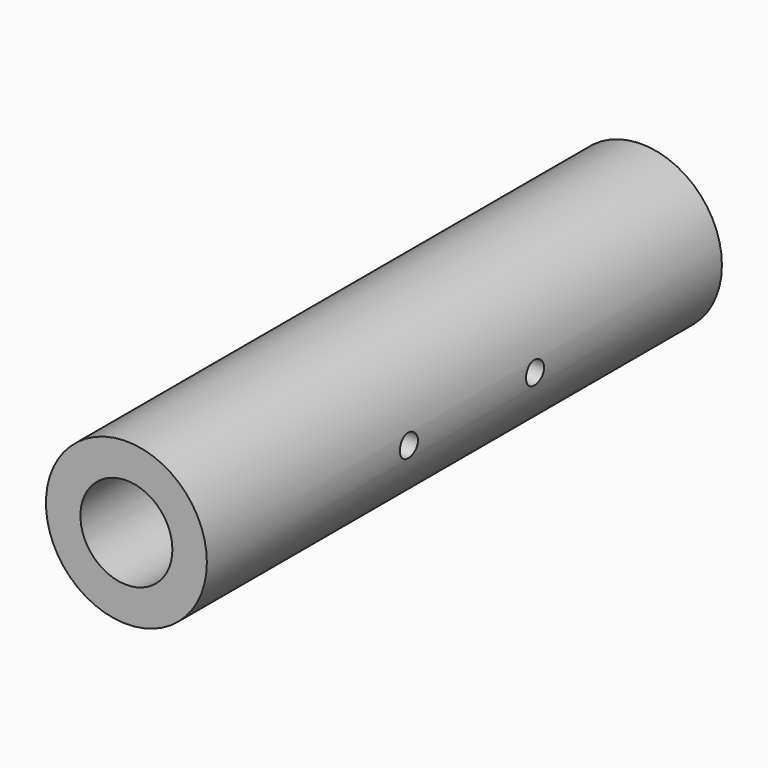
from build123d import *

# Parameters (mm, degrees)
F0_R     = 11.1125
F1_DEPTH = 44.45
F2_R     = 6.35
F3_DEPTH = 88.9
F4_R     = 1.5584639764
F4_R_2   = 1.5569858866
F5_DEPTH = 12.7
F6_DEPTH = 12.7


with BuildPart() as f1:
    # F0 (on Front) → F1 (new body, symmetric)
    with BuildSketch(Plane.XZ):
        Circle(F0_R)
    extrude(amount=F1_DEPTH, both=True)

    # F2 (on face) → F3 (cut)
    with BuildSketch(Plane.XZ.offset(44.45)):
        Circle(F2_R)
    extrude(amount=-F3_DEPTH, mode=Mode.SUBTRACT)

    # F4 (on Right) → F5 (cut, symmetric)
    with BuildSketch(Plane.YZ):
        with Locations((12.2036093806, 0)):
            Circle(F4_R)
        with Locations((-9.5729407563, 0)):
            Circle(F4_R_2)
    extrude(amount=F5_DEPTH, both=True, mode=Mode.SUBTRACT)

    # F4 (on Right) → F6 (cut, symmetric)
    with BuildSketch(Plane.YZ):
        with Locations((12.2036093806, 0)):
            Circle(F4_R)
        with Locations((-9.5729407563, 0)):
            Circle(F4_R_2)
    extrude(amount=F6_DEPTH, both=True, mode=Mode.SUBTRACT)


solid = f1.part
